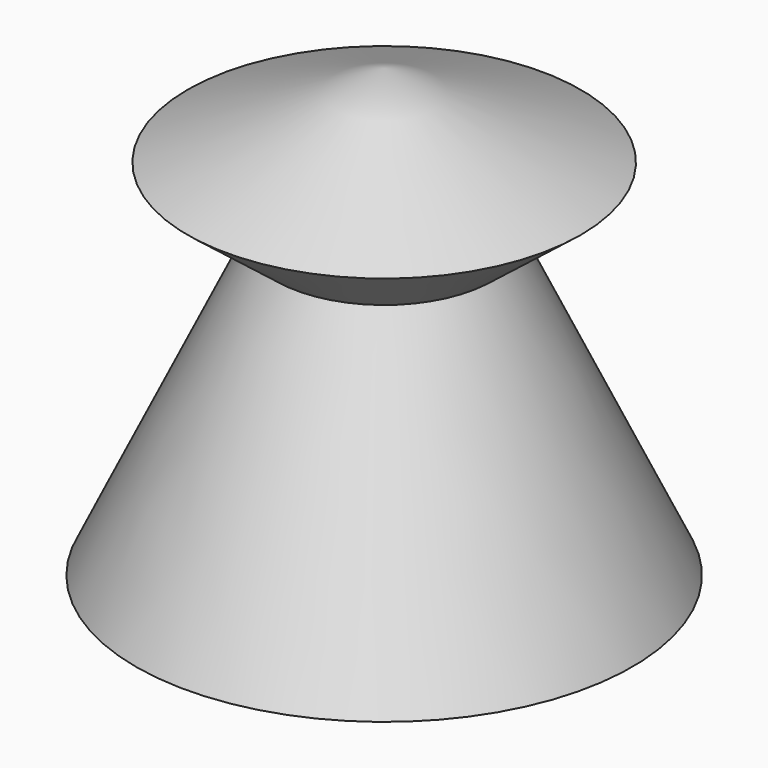
from build123d import *

# Parameters (mm, degrees)
F2_T = -2.5


with BuildPart() as f1:
    # F0 (on Front) → F1 (revolve)
    with BuildSketch(Plane.XZ):
        Polygon((-53.6731854081, -33.8757000864), (0, 0), (0, 62.6187175512), (-42.527936399, 44.7276569903), (-23.4636887908, 29.7695547342), align=None)
    revolve(axis=Axis((0, 0, 31.3093587756), (0, 0, 1)))

    # F2
    f2_openings = [f1.faces().sort_by_distance(p)[0] for p in [
        (26.836593, 0, -16.93785),
    ]]
    offset(amount=F2_T, openings=f2_openings, kind=Kind.INTERSECTION)


solid = f1.part
